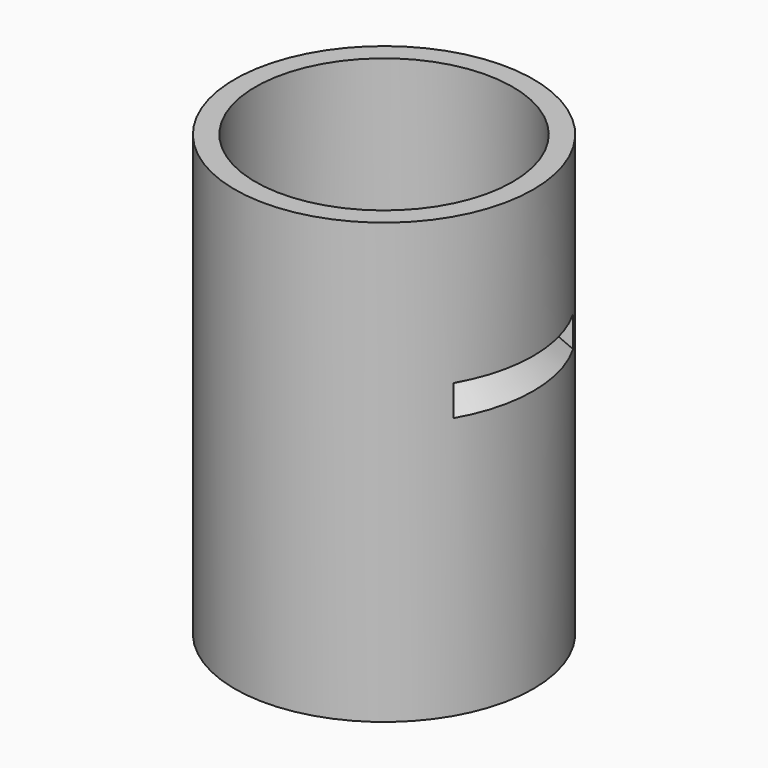
from build123d import *

# Parameters (mm, degrees)
F2_ANGLE_BACK  = 30
F2_ANGLE       = 60
F3_ANGLE_START = 150
F3_ANGLE       = 30


with BuildPart() as f1:
    # F0 (on Front) → F1 (revolve)
    with BuildSketch(Plane.XZ):
        Polygon((26.9527230412, 13.23380135), (26.9527230412, 39.6751612425), (23.2207458466, 39.6751612425), (23.2207458466, 15.7125871629), align=None)
        Polygon((26.9527230412, 7.6516205445), (26.9527230412, 13.23380135), (23.2207458466, 15.7125871629), (23.2207458466, 10.9555618837), align=None)
        Polygon((26.9527230412, -39.6751612425), (26.9527230412, 7.6516205445), (23.2207458466, 10.9555618837), (9.1962680429, 22.2483958323), (6.8564140238, 20.368527621), (23.2207458466, 0), (23.2207458466, -39.6751612425), align=None)
    revolve(axis=Axis((0, 0, 5.4553020746), (0, 0, -1)))

    # F0 (on Front) → F2 (revolve, cut)
    with BuildSketch(Plane.XZ, mode=Mode.PRIVATE) as f2_sk:
        Polygon((26.9527230412, 7.6516205445), (26.9527230412, 13.23380135), (23.2207458466, 15.7125871629), (23.2207458466, 10.9555618837), align=None)
    revolve(f2_sk.sketch.rotate(Axis((0, 0, 5.4553020746), (0, 0, 1)), -F2_ANGLE_BACK), axis=Axis((0, 0, 5.4553020746), (0, 0, 1)), revolution_arc=F2_ANGLE, mode=Mode.SUBTRACT)

    # F0 (on Front) → F3 (revolve, cut)
    with BuildSketch(Plane.XZ, mode=Mode.PRIVATE) as f3_sk:
        Polygon((26.9527230412, 7.6516205445), (26.9527230412, 13.23380135), (23.2207458466, 15.7125871629), (23.2207458466, 10.9555618837), align=None)
    revolve(f3_sk.sketch.rotate(Axis((0, 0, 5.4553020746), (0, 0, 1)), F3_ANGLE_START), axis=Axis((0, 0, 5.4553020746), (0, 0, 1)), revolution_arc=F3_ANGLE, mode=Mode.SUBTRACT)


solid = f1.part
